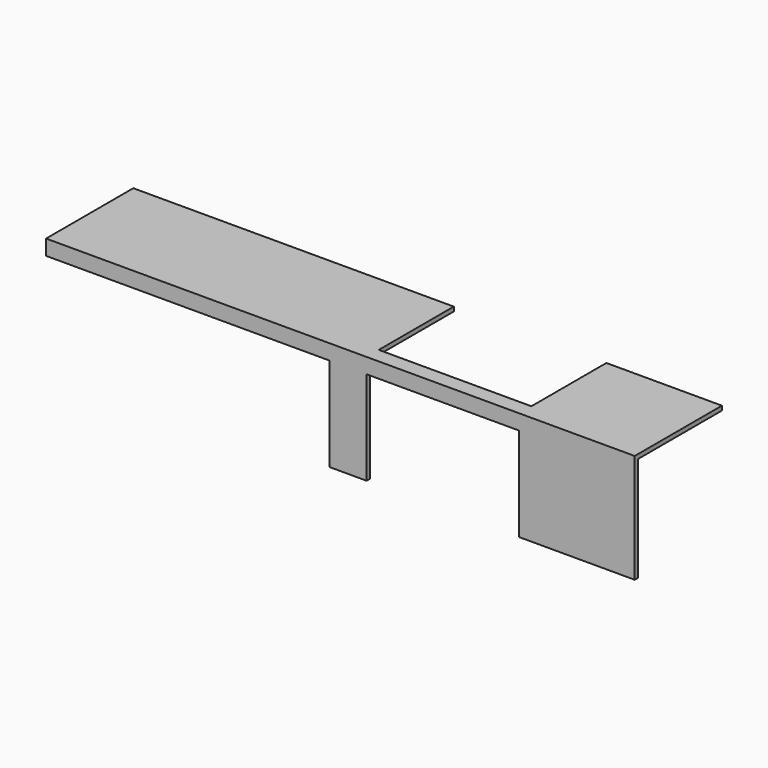
from build123d import *

# Parameters (mm, degrees)
F0_W     = 1
F0_H     = 24
F0_H_2   = 1
F0_W_2   = 24
F1_DEPTH = 135
F2_W     = 35
F2_H     = 21.5
F3_DEPTH = 1
F4_W     = 35
F4_H     = 21.5
F4_W_2   = 65
F5_DEPTH = 1


with BuildPart() as f1:
    # F0 (on Right) → F1 (new body)
    with BuildSketch(Plane.YZ):
        with Locations((-64.544081, 31.736633)):
            Rectangle(F0_W, F0_H)
        with Locations((-64.544081, 44.236633)):
            Rectangle(F0_W, F0_H_2)
        with Locations((-52.044081, 44.236633)):
            Rectangle(F0_W_2, F0_H_2)
    extrude(amount=F1_DEPTH)

    # F2 (on face) → F3 (cut)
    with BuildSketch(Plane.XY.offset(44.736633)):
        with Locations((91, -50.794081)):
            Rectangle(F2_W, F2_H)
    extrude(amount=-F3_DEPTH, mode=Mode.SUBTRACT)

    # F4 (on face) → F5 (cut)
    with BuildSketch(Plane.XZ.offset(65.044081)):
        with Locations((91, 30.486633)):
            Rectangle(F4_W, F4_H)
        with Locations((32.5, 30.486633)):
            Rectangle(F4_W_2, F4_H)
    extrude(amount=-F5_DEPTH, mode=Mode.SUBTRACT)


solid = f1.part
